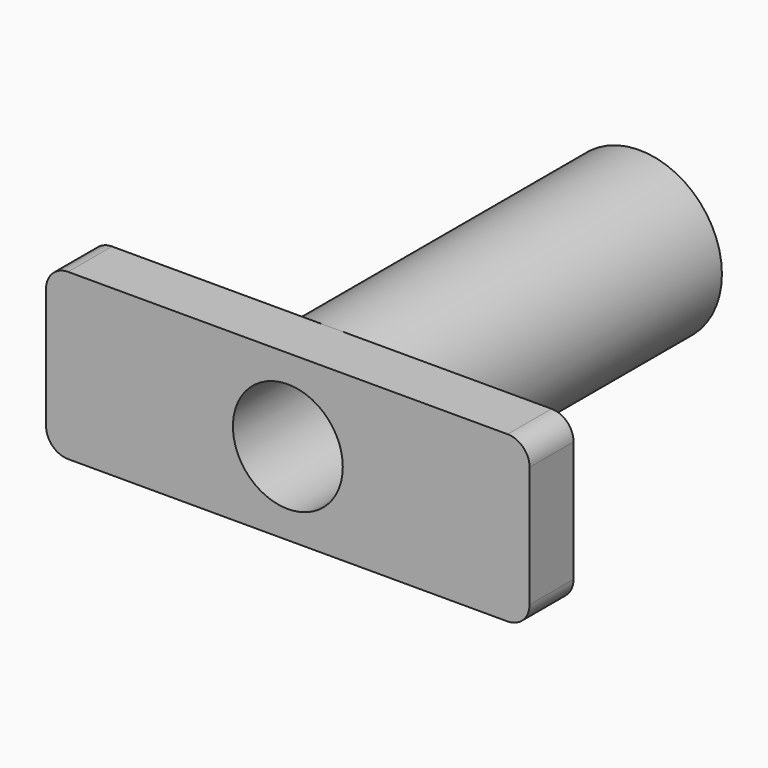
from build123d import *

# Parameters (mm, degrees)
F0_R     = 4.7625
F1_DEPTH = 25.4
F2_R     = 3.175
F3_DEPTH = 19.05
F5_DEPTH = 3.175


with BuildPart() as f1:
    # F0 (on Front) → F1 (new body)
    with BuildSketch(Plane.XZ):
        Circle(F0_R)
    extrude(amount=F1_DEPTH)

    # F2 (on face) → F3 (cut)
    with BuildSketch(Plane.XZ.offset(25.4)):
        Circle(F2_R)
    extrude(amount=-F3_DEPTH, mode=Mode.SUBTRACT)

    # F4 (on face) → F5 (join)
    with BuildSketch(Plane.XZ.offset(25.4)):
        with BuildLine():
            ThreePointArc((0, -4.7625), (-4.7625, 0), (0, 4.7625))
            Line((0, 4.7625), (-12.7, 4.7625))
            ThreePointArc((-12.7, 4.7625), (-13.5980256121, 4.3905256121), (-13.97, 3.4925))
            Line((-13.97, 3.4925), (-13.97, -3.4925))
            ThreePointArc((-13.97, -3.4925), (-13.5980256121, -4.3905256121), (-12.7, -4.7625))
            Line((-12.7, -4.7625), (0, -4.7625))
        make_face()
        with BuildLine():
            Line((12.7, 4.7625), (0, 4.7625))
            ThreePointArc((0, 4.7625), (3.3675960454, 3.3675960454), (4.7625, 0))
            ThreePointArc((4.7625, 0), (3.3675960454, -3.3675960454), (0, -4.7625))
            Line((0, -4.7625), (12.7, -4.7625))
            ThreePointArc((12.7, -4.7625), (13.5980256121, -4.3905256121), (13.97, -3.4925))
            Line((13.97, -3.4925), (13.97, 3.4925))
            ThreePointArc((13.97, 3.4925), (13.5980256121, 4.3905256121), (12.7, 4.7625))
        make_face()
    extrude(amount=-F5_DEPTH)


solid = f1.part
